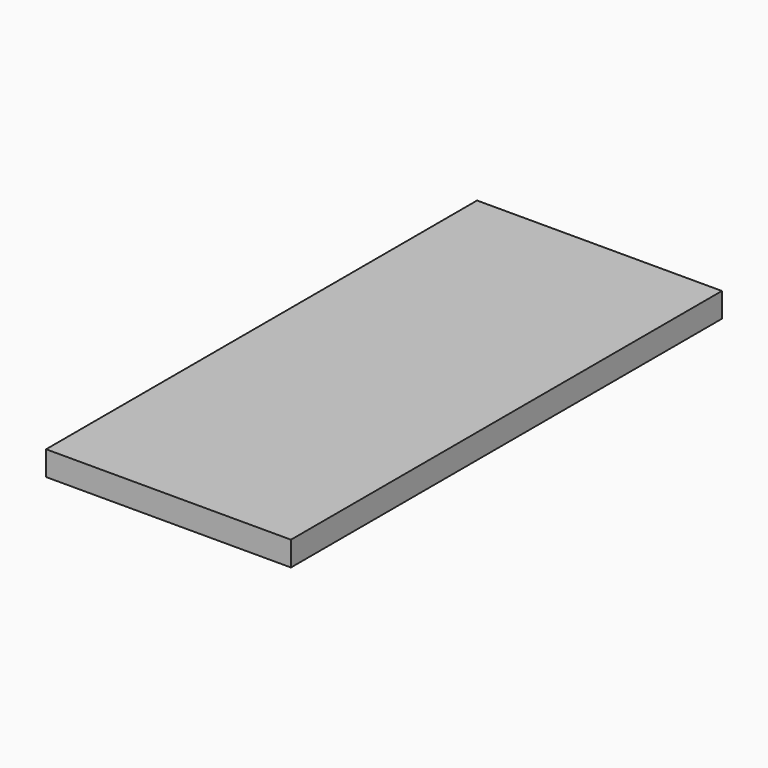
from build123d import *

# Parameters (mm, degrees)
F0_W     = 250
F0_H     = 550
F1_DEPTH = 25
F2_DEPTH = 25
F3_DEPTH = 25
F4_DEPTH = 25
F5_DEPTH = 25


with BuildPart() as f1:
    # F0 (on Top) → F1 (new body)
    with BuildSketch(Plane.XY):
        with Locations((109.834085, 229.059995)):
            Rectangle(F0_W, F0_H)
    extrude(amount=F1_DEPTH)

    # F0 (on Top) → F2 (join)
    with BuildSketch(Plane.XY):
        with Locations((109.834085, 229.059995)):
            Rectangle(F0_W, F0_H)
    extrude(amount=F2_DEPTH)

    # F0 (on Top) → F3 (join)
    with BuildSketch(Plane.XY):
        with Locations((109.834085, 229.059995)):
            Rectangle(F0_W, F0_H)
    extrude(amount=F3_DEPTH)

    # F0 (on Top) → F4 (join)
    with BuildSketch(Plane.XY):
        with Locations((109.834085, 229.059995)):
            Rectangle(F0_W, F0_H)
    extrude(amount=F4_DEPTH)

    # F0 (on Top) → F5 (join)
    with BuildSketch(Plane.XY):
        with Locations((109.834085, 229.059995)):
            Rectangle(F0_W, F0_H)
    extrude(amount=F5_DEPTH)


solid = f1.part
